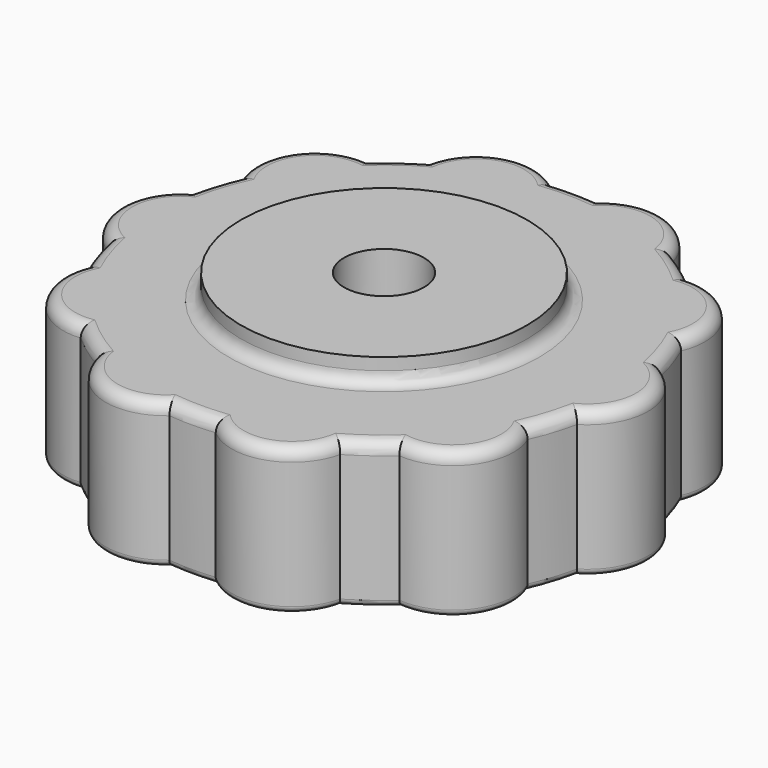
from build123d import *

# Parameters (mm, degrees)
F0_R     = 5.9
F0_R_2   = 1.65
F1_DEPTH = 6
F2_DEPTH = 7
F3_DEPTH = 7
F5_START = -2
F4_R     = 1.65
F5_DEPTH = 3
F6_R     = 0.5
F7_R     = 0.25
F8_DEPTH = 2
F9_DEPTH = 2


with BuildPart() as f1:
    # F0 (on Top) → F1 (new body)
    with BuildSketch(Plane.XY):
        with BuildLine():
            ThreePointArc((-0.6962339846, 3.9587541561), (-1.0348069468, 3.0655546072), (-1.2859051888, 2.1439327987))
            ThreePointArc((-1.2859051888, 2.1439327987), (-2.5, 0), (-1.2859051888, -2.1439327987))
            ThreePointArc((-1.2859051888, -2.1439327987), (-1.0348069468, -3.0655546072), (-0.6962339846, -3.9587541561))
            ThreePointArc((-0.6962339846, -3.9587541561), (-0.4182852387, -6.40685925), (1.8241101773, -7.427710294))
            ThreePointArc((1.8241101773, -7.427710294), (2.5689686296, -8.0257261559), (3.367889432, -8.5493315764))
            ThreePointArc((3.367889432, -8.5493315764), (5.0317147613, -10.3665160276), (7.4458919495, -9.8743549156))
            ThreePointArc((7.4458919495, -9.8743549156), (8.4, -9.9203430975), (9.3541080505, -9.8743549156))
            ThreePointArc((9.3541080505, -9.8743549156), (11.7682852387, -10.3665160276), (13.432110568, -8.5493315764))
            ThreePointArc((13.432110568, -8.5493315764), (14.2310313704, -8.0257261559), (14.9758898227, -7.427710294))
            ThreePointArc((14.9758898227, -7.427710294), (17.2182852387, -6.40685925), (17.4962339846, -3.9587541561))
            ThreePointArc((17.4962339846, -3.9587541561), (17.8348069468, -3.0655546072), (18.0859051888, -2.1439327987))
            ThreePointArc((18.0859051888, -2.1439327987), (19.3, 0), (18.0859051888, 2.1439327987))
            ThreePointArc((18.0859051888, 2.1439327987), (17.8348069468, 3.0655546072), (17.4962339846, 3.9587541561))
            ThreePointArc((17.4962339846, 3.9587541561), (17.2182852387, 6.40685925), (14.9758898227, 7.427710294))
            ThreePointArc((14.9758898227, 7.427710294), (14.2310313704, 8.0257261559), (13.432110568, 8.5493315764))
            ThreePointArc((13.432110568, 8.5493315764), (11.7682852387, 10.3665160276), (9.3541080505, 9.8743549156))
            ThreePointArc((9.3541080505, 9.8743549156), (8.4, 9.9203430975), (7.4458919495, 9.8743549156))
            ThreePointArc((7.4458919495, 9.8743549156), (5.0317147613, 10.3665160276), (3.367889432, 8.5493315764))
            ThreePointArc((3.367889432, 8.5493315764), (2.5689686296, 8.0257261559), (1.8241101773, 7.427710294))
            ThreePointArc((1.8241101773, 7.427710294), (-0.4182852387, 6.40685925), (-0.6962339846, 3.9587541561))
        make_face()
        with Locations((8.4, 0)):
            Circle(F0_R, mode=Mode.SUBTRACT)
        with Locations((8.4, 0)):
            Circle(F0_R)
        Polygon((11.6908965344, 0), (10.0454482672, -2.85), (6.7545517328, -2.85), (5.1091034656, 0), (6.7545517328, 2.85), (10.0454482672, 2.85), align=None, mode=Mode.SUBTRACT)
        Polygon((6.7545517328, -2.85), (10.0454482672, -2.85), (11.6908965344, 0), (10.0454482672, 2.85), (6.7545517328, 2.85), (5.1091034656, 0), align=None)
        with Locations((8.4, 0)):
            Circle(F0_R_2, mode=Mode.SUBTRACT)
    extrude(amount=F1_DEPTH)

    # F0 (on Top) → F2 (join)
    with BuildSketch(Plane.XY):
        with Locations((8.4, 0)):
            Circle(F0_R)
        Polygon((11.6908965344, 0), (10.0454482672, -2.85), (6.7545517328, -2.85), (5.1091034656, 0), (6.7545517328, 2.85), (10.0454482672, 2.85), align=None, mode=Mode.SUBTRACT)
    extrude(amount=F2_DEPTH)

    # F0 (on Top) → F3 (join)
    with BuildSketch(Plane.XY):
        Polygon((6.7545517328, -2.85), (10.0454482672, -2.85), (11.6908965344, 0), (10.0454482672, 2.85), (6.7545517328, 2.85), (5.1091034656, 0), align=None)
        with Locations((8.4, 0)):
            Circle(F0_R_2, mode=Mode.SUBTRACT)
    extrude(amount=F3_DEPTH)

    # F4 (on face) → F5 (cut)
    with BuildSketch(Plane.XY.offset(7).offset(F5_START)):
        Polygon((10.0083278178, 2.7857054956), (6.7916721822, 2.7857054956), (5.1833443644, 0), (6.7916721822, -2.7857054956), (10.0083278178, -2.7857054956), (11.6166556356, 0), align=None)
        with Locations((8.4, 0)):
            Circle(F4_R, mode=Mode.SUBTRACT)
    extrude(amount=-F5_DEPTH, mode=Mode.SUBTRACT)

    # F6
    f6_edges = [f1.edges().sort_by_distance(p)[0] for p in [
        (2.568969, 8.025726, 6),
        (5.031715, 10.366516, 6),
        (-0.418285, 6.406859, 6),
        (8.4, 9.920343, 6),
        (-1.034807, 3.065555, 6),
        (11.768285, 10.366516, 6),
        (-2.5, 0, 6),
        (14.231031, 8.025726, 6),
        (-1.034807, -3.065555, 6),
        (17.218285, 6.406859, 6),
        (-0.418285, -6.406859, 6),
        (17.834807, 3.065555, 6),
        (2.568969, -8.025726, 6),
        (19.3, 0, 6),
        (5.031715, -10.366516, 6),
        (17.834807, -3.065555, 6),
        (8.4, -9.920343, 6),
        (17.218285, -6.406859, 6),
        (11.768285, -10.366516, 6),
        (14.231031, -8.025726, 6),
        (2.5, 0, 6),
    ]]
    fillet(f6_edges, radius=F6_R)

    # F7
    f7_edges = [f1.edges().sort_by_distance(p)[0] for p in [
        (2.568969, 8.025726, 0),
        (-0.418285, 6.406859, 0),
        (-1.034807, 3.065555, 0),
        (-2.5, 0, 0),
        (-1.034807, -3.065555, 0),
        (-0.418285, -6.406859, 0),
        (2.568969, -8.025726, 0),
        (5.031715, -10.366516, 0),
        (8.4, -9.920343, 0),
        (11.768285, -10.366516, 0),
        (14.231031, -8.025726, 0),
        (17.218285, -6.406859, 0),
        (17.834807, -3.065555, 0),
        (19.3, 0, 0),
        (17.834807, 3.065555, 0),
        (17.218285, 6.406859, 0),
        (14.231031, 8.025726, 0),
        (11.768285, 10.366516, 0),
        (8.4, 9.920343, 0),
        (5.031715, 10.366516, 0),
        (6.75, 0, 0),
    ]]
    fillet(f7_edges, radius=F7_R)

    # F0 (on Top) → F8 (cut)
    with BuildSketch(Plane.XY):
        with Locations((8.4, 0)):
            Circle(F0_R)
        Polygon((11.6908965344, 0), (10.0454482672, -2.85), (6.7545517328, -2.85), (5.1091034656, 0), (6.7545517328, 2.85), (10.0454482672, 2.85), align=None, mode=Mode.SUBTRACT)
        Polygon((6.7545517328, -2.85), (10.0454482672, -2.85), (11.6908965344, 0), (10.0454482672, 2.85), (6.7545517328, 2.85), (5.1091034656, 0), align=None)
        with Locations((8.4, 0)):
            Circle(F0_R_2, mode=Mode.SUBTRACT)
    extrude(amount=F8_DEPTH, mode=Mode.SUBTRACT)

    # F9 (add): a face of the model
    f9_faces = [f1.faces().sort_by_distance(p)[0] for p in [
        (2.6668772004, 0, 2),
    ]]
    extrude(f9_faces, amount=F9_DEPTH)


solid = f1.part
